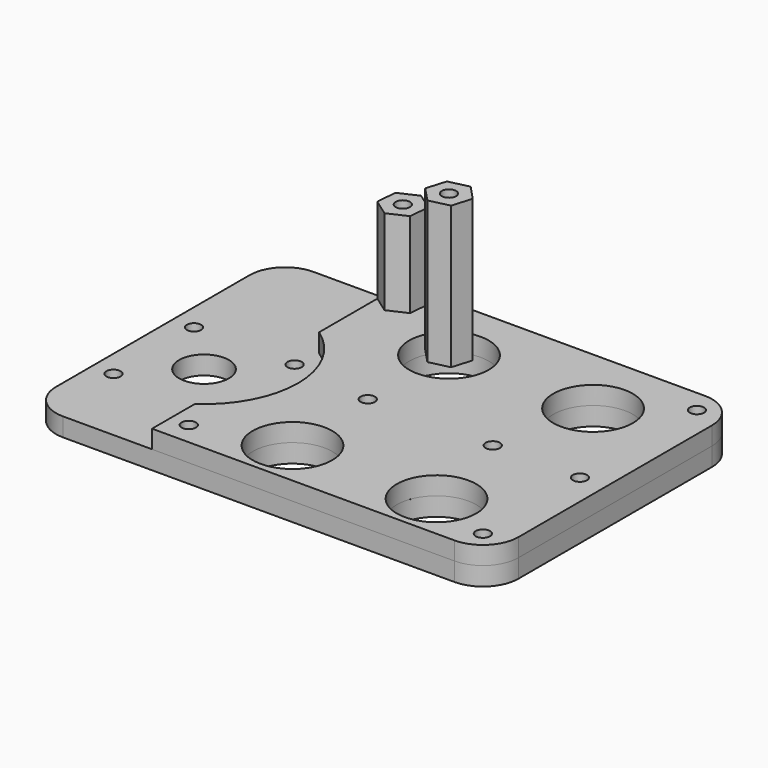
from build123d import *

# Parameters (mm, degrees)
F0_W     = 165.1
F0_H     = 111.76
F0_R     = 2.5527
F0_R_2   = 14.1986
F0_R_3   = 8.89
F1_DEPTH = 6.604
F2_R     = 12.7
F3_R     = 2.5527
F3_R_2   = 14.1986
F4_DEPTH = 6.477
F5_R     = 2.5527
F6_DEPTH = 30.48
F7_R     = 2.5527
F8_DEPTH = 50.8


with BuildPart() as f1:
    # F0 (on Top) → F1 (new body)
    with BuildSketch(Plane.XY):
        with Locations((1.1836035371, 54.338986495)):
            Rectangle(F0_W, F0_H)
        with Locations((-30.3193340078, 6.586986495)):
            Circle(F0_R, mode=Mode.SUBTRACT)
        with Locations((0, 14.968986495)):
            Circle(F0_R_2, mode=Mode.SUBTRACT)
        with Locations((-73.7661991034, 27.3065816845)):
            Circle(F0_R, mode=Mode.SUBTRACT)
        with Locations((-55.8056868613, 45.2670939267)):
            Circle(F0_R_3, mode=Mode.SUBTRACT)
        with Locations((-37.8451746191, 27.3065816845)):
            Circle(F0_R, mode=Mode.SUBTRACT)
        with Locations((-1.0476486059, 49.893986495)):
            Circle(F0_R, mode=Mode.SUBTRACT)
        with Locations((74.6889635921, 6.586986495)):
            Circle(F0_R, mode=Mode.SUBTRACT)
        with Locations((51.435, 14.968986495)):
            Circle(F0_R_2, mode=Mode.SUBTRACT)
        with Locations((43.5620099306, 49.893986495)):
            Circle(F0_R, mode=Mode.SUBTRACT)
        with Locations((74.6889635921, 49.893986495)):
            Circle(F0_R, mode=Mode.SUBTRACT)
        with Locations((-73.7661991034, 63.2276061688)):
            Circle(F0_R, mode=Mode.SUBTRACT)
        with Locations((-37.8451746191, 63.2276061688)):
            Circle(F0_R, mode=Mode.SUBTRACT)
        with Locations((0, 84.818986495)):
            Circle(F0_R_2, mode=Mode.SUBTRACT)
        with Locations((-30.3193340078, 102.090986495)):
            Circle(F0_R, mode=Mode.SUBTRACT)
        with Locations((51.435, 84.818986495)):
            Circle(F0_R_2, mode=Mode.SUBTRACT)
        with Locations((74.6889635921, 102.090986495)):
            Circle(F0_R, mode=Mode.SUBTRACT)
    extrude(amount=F1_DEPTH)

    # F2
    f2_edges = [f1.edges().sort_by_distance(p)[0] for p in [
        (-81.366396, 110.218986, 3.302),
        (-81.366396, -1.541014, 3.302),
        (83.733604, -1.541014, 3.302),
        (83.733604, 110.218986, 3.302),
    ]]
    fillet(f2_edges, radius=F2_R)


with BuildPart() as f4:
    # F3 (on face) → F4 (new body)
    with BuildSketch(Plane.XY.offset(6.604)):
        with BuildLine():
            Line((71.0336035371, 110.218986495), (-36.9163964629, 110.218986495))
            Line((-36.9163964629, 110.218986495), (-36.9163964629, 72.9676623729))
            ThreePointArc((-36.9163964629, 72.9676623729), (-22.2776868613, 45.2670939267), (-36.9163964629, 17.5665254804))
            Line((-36.9163964629, 17.5665254804), (-36.9163964629, -1.541013505))
            Line((-36.9163964629, -1.541013505), (71.0336035371, -1.541013505))
            ThreePointArc((71.0336035371, -1.541013505), (80.0138596582, 2.1787303739), (83.7336035371, 11.158986495))
            Line((83.7336035371, 11.158986495), (83.7336035371, 97.518986495))
            ThreePointArc((83.7336035371, 97.518986495), (80.0138596582, 106.4992426161), (71.0336035371, 110.218986495))
        make_face()
        with Locations((-30.3193340078, 6.586986495)):
            Circle(F3_R, mode=Mode.SUBTRACT)
        with Locations((0, 14.968986495)):
            Circle(F3_R_2, mode=Mode.SUBTRACT)
        with Locations((-1.0476486059, 49.893986495)):
            Circle(F3_R, mode=Mode.SUBTRACT)
        with Locations((74.6889635921, 6.586986495)):
            Circle(F3_R, mode=Mode.SUBTRACT)
        with Locations((51.435, 14.968986495)):
            Circle(F3_R_2, mode=Mode.SUBTRACT)
        with Locations((43.5620099306, 49.893986495)):
            Circle(F3_R, mode=Mode.SUBTRACT)
        with Locations((74.6889635921, 49.893986495)):
            Circle(F3_R, mode=Mode.SUBTRACT)
        with Locations((0, 84.818986495)):
            Circle(F3_R_2, mode=Mode.SUBTRACT)
        with Locations((-30.3193340078, 102.090986495)):
            Circle(F3_R, mode=Mode.SUBTRACT)
        with Locations((51.435, 84.818986495)):
            Circle(F3_R_2, mode=Mode.SUBTRACT)
        with Locations((74.6889635921, 102.090986495)):
            Circle(F3_R, mode=Mode.SUBTRACT)
    extrude(amount=F4_DEPTH)


with BuildPart() as f6:
    # F5 (on face) → F6 (new body)
    with BuildSketch(Plane.XY.offset(13.081)):
        Polygon((-31.0056853073, 94.790832029), (-24.3403904385, 97.8465116007), (-23.654039139, 105.1466660667), (-29.6329827083, 109.391140961), (-36.2982775771, 106.3354613893), (-36.9163964629, 99.7610390083), (-36.9163964629, 98.986868472), align=None)
        with Locations((-30.3193340078, 102.090986495)):
            Circle(F5_R, mode=Mode.SUBTRACT)
    extrude(amount=F6_DEPTH)


with BuildPart() as f8:
    # F7 (on face) → F8 (new body)
    with BuildSketch(Plane.XY.offset(13.081)):
        Polygon((-2.1173302044, 77.7989974538), (5.0208237418, 79.4753302292), (7.1381539462, 86.4953192704), (2.1173302044, 91.8389755362), (-5.0208237418, 90.1626427608), (-7.1381539462, 83.1426537196), align=None)
        with Locations((0, 84.818986495)):
            Circle(F7_R, mode=Mode.SUBTRACT)
    extrude(amount=F8_DEPTH)


solid = Compound([f1.part, f4.part, f6.part, f8.part])
